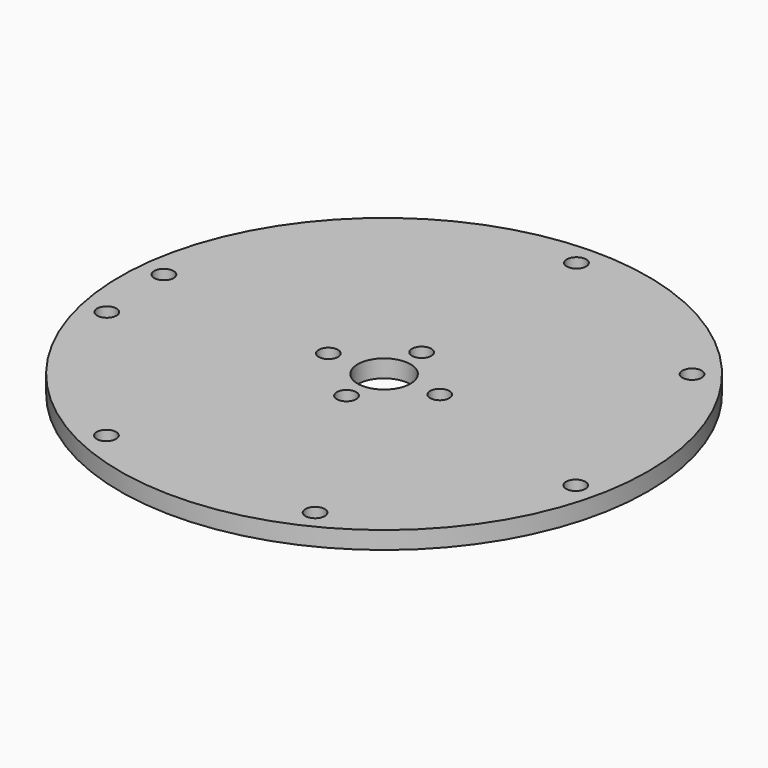
from build123d import *

# Parameters (mm, degrees)
F0_R     = 45
F0_R_2   = 4.5
F1_DEPTH = 3
F2_D     = 3.3


with BuildPart() as f1:
    # F0 (on Top) → F1 (new body)
    with BuildSketch(Plane.XY):
        Circle(F0_R)
        Circle(F0_R_2, mode=Mode.SUBTRACT)
    extrude(amount=F1_DEPTH)

    # F2 (through all)
    with Locations(Plane(origin=(0, 0, 0), x_dir=(1, 0, 0), z_dir=(0, 0, -1))):
        with Locations((9.5, 0), (0, -8), (-9.5, 0), (0, 8), (32.0550907812, -25.5630818762), (39.9720443995, 9.1233582922), (17.7892333038, 36.939723584), (-17.7892333038, 36.939723584), (-39.9720443995, 9.1233582922), (-40.7968257636, -4.0766417078), (0, -41)):
            Hole(F2_D / 2)


solid = f1.part
